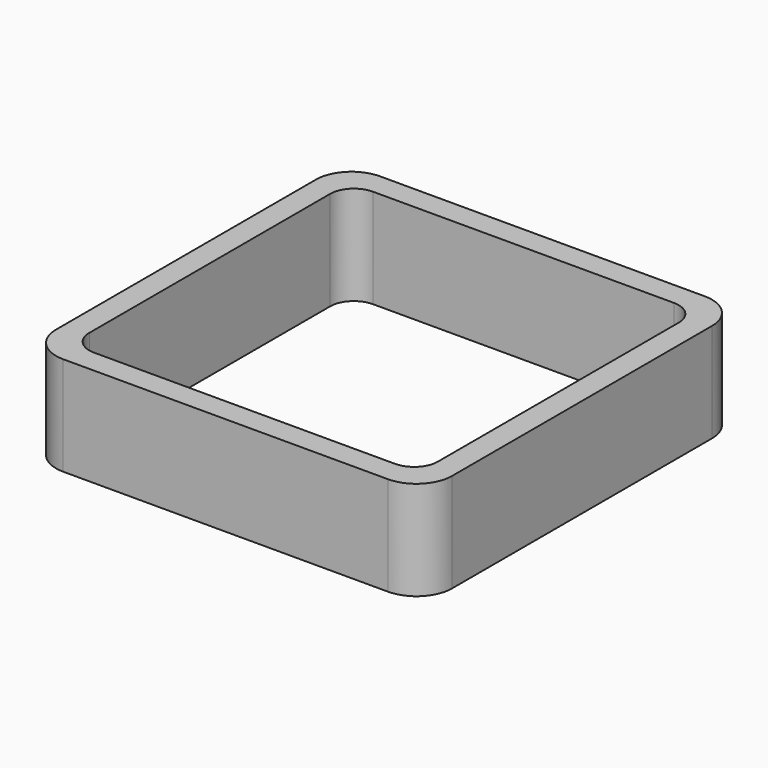
from build123d import *

# Parameters (mm, degrees)
EXTRUDE_DEPTH = 50


with BuildPart() as part:
    # Sketch → Extrude (new body)
    with BuildSketch(Plane.XY):
        with BuildLine():
            Line((-82, 100), (82, 100))
            ThreePointArc((100, 82), (94.727922, 94.727922), (82, 100))
            Line((100, 82), (100, -82))
            ThreePointArc((82, -100), (94.727922, -94.727922), (100, -82))
            Line((82, -100), (-82, -100))
            ThreePointArc((-100, -82), (-94.727922, -94.727922), (-82, -100))
            Line((-100, -82), (-100, 82))
            ThreePointArc((-82, 100), (-94.727922, 94.727922), (-100, 82))
        make_face()
        with BuildLine():
            Line((-76, 88), (76, 88))
            ThreePointArc((88, 76), (84.485281, 84.485281), (76, 88))
            Line((88, 76), (88, -76))
            ThreePointArc((76, -88), (84.485281, -84.485281), (88, -76))
            Line((76, -88), (-76, -88))
            ThreePointArc((-88, -76), (-84.485281, -84.485281), (-76, -88))
            Line((-88, -76), (-88, 76))
            ThreePointArc((-76, 88), (-84.485281, 84.485281), (-88, 76))
        make_face(mode=Mode.SUBTRACT)
    extrude(amount=EXTRUDE_DEPTH)


solid = part.part
